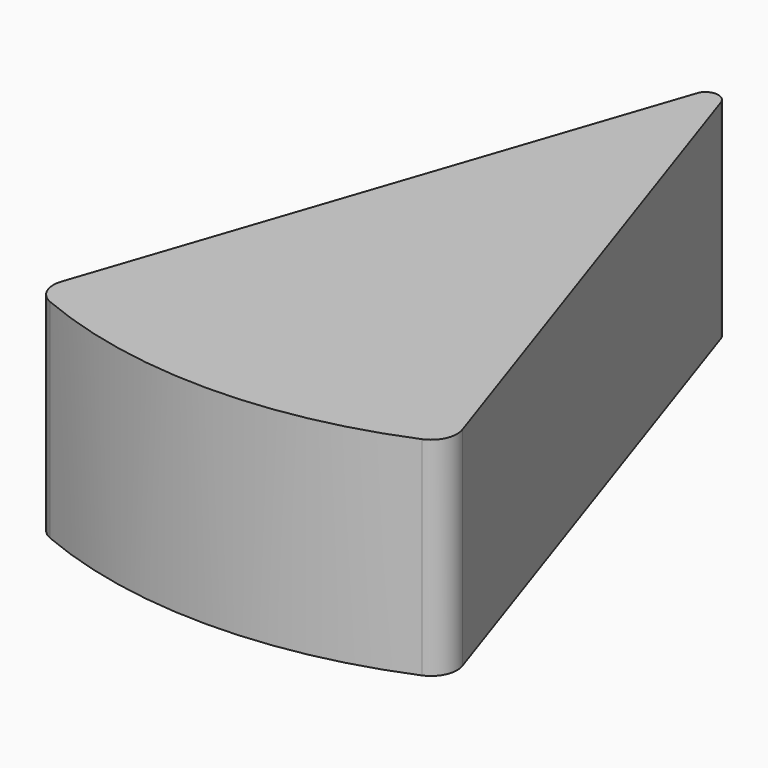
from build123d import *

# Parameters (mm, degrees)
F1_DEPTH = 25.4


with BuildPart() as f1:
    # F0 (on Top) → F1 (new body)
    with BuildSketch(Plane.XY):
        with BuildLine():
            ThreePointArc((-23.8956, 70.919667), (-25.227502, 71.990876), (-26.75937, 71.232697))
            Line((-26.75937, 71.232697), (-49.879318, 2.727993))
            ThreePointArc((-49.879318, 2.727993), (-49.765035, 0.406829), (-48.100238, -1.214687))
            ThreePointArc((-48.100238, -1.214687), (-25.399239, -5.787224), (-2.698359, -1.214098))
            ThreePointArc((-2.698359, -1.214098), (-1.033947, 0.406702), (-0.918849, 2.72705))
            Line((-0.918849, 2.72705), (-23.8956, 70.919667))
        make_face()
    extrude(amount=F1_DEPTH)


solid = f1.part
